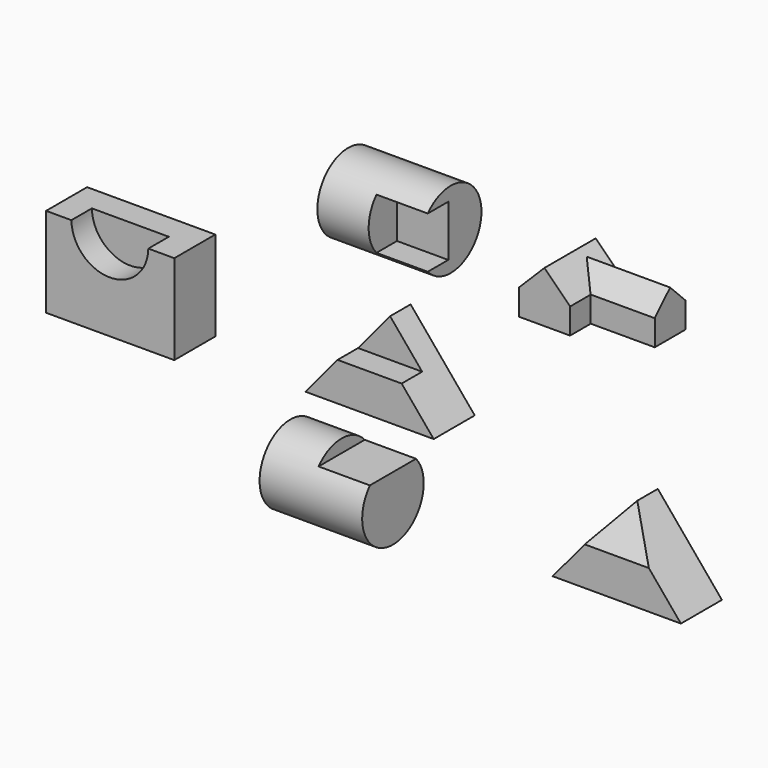
from build123d import *

# Parameters (mm, degrees)
F1_DEPTH  = 101.6
F3_DEPTH  = 50.8
F5_DEPTH  = 101.6
F9_DEPTH  = 63.5
F11_DEPTH = 127
F14_DEPTH = 165.1
F15_R     = 76.2
F16_DEPTH = 203.2
F18_DEPTH = 101.6
F19_R     = 76.2
F20_DEPTH = 203.2
F22_DEPTH = 101.6
F24_DEPTH = 101.6
F26_DEPTH = 50.8


with BuildPart() as f1:
    # F0 (on Front) → F1 (new body)
    with BuildSketch(Plane.XZ):
        Polygon((127, 152.4), (0, 0), (254, 0), align=None)
    extrude(amount=F1_DEPTH)

    # F2 (on face) → F3 (cut)
    with BuildSketch(Plane.XZ.offset(101.6)):
        Polygon((190.5, 76.2), (127, 152.4), (63.5, 76.2), align=None)
    extrude(amount=-F3_DEPTH, mode=Mode.SUBTRACT)


with BuildPart() as f5:
    # F4 (on Front) → F5 (new body)
    with BuildSketch(Plane.XZ):
        Polygon((535.4554802179, -77.8751887038), (408.4554802179, -230.2751887038), (662.4554802179, -230.2751887038), align=None)
    extrude(amount=-F5_DEPTH)

    # F8 (on 3pt) → F9 (cut, symmetric)
    with BuildSketch(Plane.YZ.offset(535.4554802179)):
        Polygon((50.8, -77.8751887038), (0, -77.8751887038), (0, -154.0751887038), align=None)
    extrude(amount=F9_DEPTH, both=True, mode=Mode.SUBTRACT)


with BuildPart() as f11:
    # F10 (on Front) → F11 (new body)
    with BuildSketch(Plane.XZ):
        Polygon((341.3501097689, 251.4062291985), (341.3501097689, 200.6062291985), (442.9501097689, 200.6062291985), (442.9501097689, 251.4062291985), (392.1501097689, 302.2062291985), align=None)
    extrude(amount=-F11_DEPTH)

    # F13 (on offset) → F14 (join)
    with BuildSketch(Plane.YZ.offset(569.9501097689)):
        Polygon((50.8958360949, 200.7921435535), (127.0958360949, 200.7921435535), (127.0958360949, 251.5921435535), (88.9958360949, 289.6921435535), (50.8958360949, 251.5921435535), align=None)
    extrude(amount=-F14_DEPTH)


with BuildPart() as f16:
    # F15 (on Right) → F16 (new body)
    with BuildSketch(Plane.YZ):
        with Locations((-139.0742510557, -109.2275083065)):
            Circle(F15_R)
    extrude(amount=F16_DEPTH)

    # F17 (on face) → F18 (cut)
    with BuildSketch(Plane.YZ.offset(203.2)):
        with BuildLine():
            ThreePointArc((-81.9242510557, -58.8259458307), (-139.0742510557, -33.0275083065), (-196.2242510557, -58.8259458307))
            Line((-196.2242510557, -58.8259458307), (-81.9242510557, -58.8259458307))
        make_face()
    extrude(amount=-F18_DEPTH, mode=Mode.SUBTRACT)


with BuildPart() as f20:
    # F19 (on Right) → F20 (new body)
    with BuildSketch(Plane.YZ):
        with Locations((257.9562664032, 136.953368783)):
            Circle(F19_R)
    extrude(amount=-F20_DEPTH)

    # F21 (on face) → F22 (cut)
    with BuildSketch(Plane.YZ):
        with BuildLine():
            Line((251.9601397747, 187.753368783), (201.1601397747, 187.753368783))
            ThreePointArc((201.1601397747, 187.753368783), (181.7562664032, 136.953368783), (201.1601397747, 86.153368783))
            Line((201.1601397747, 86.153368783), (251.9601397747, 86.153368783))
            Line((251.9601397747, 86.153368783), (251.9601397747, 187.753368783))
        make_face()
    extrude(amount=-F22_DEPTH, mode=Mode.SUBTRACT)


with BuildPart() as f24:
    # F23 (on Front) → F24 (new body)
    with BuildSketch(Plane.XZ):
        with BuildLine():
            Line((-391.5997425731, 80.6247038461), (-543.9969814222, 80.6247038461))
            ThreePointArc((-543.9969814222, 80.6247038461), (-467.7983619976, 4.8833952363), (-391.5997425731, 80.6247038461))
        make_face()
        with BuildLine():
            Line((-543.9969814222, 80.6247038461), (-595.2390838861, 80.6247038461))
            Line((-595.2390838861, 80.6247038461), (-595.2390838861, -97.1752961539))
            Line((-595.2390838861, -97.1752961539), (-341.2390838861, -97.1752961539))
            Line((-341.2390838861, -97.1752961539), (-341.2390838861, 80.6247038461))
            Line((-341.2390838861, 80.6247038461), (-391.5997425731, 80.6247038461))
            ThreePointArc((-391.5997425731, 80.6247038461), (-467.7983619976, 4.8833952363), (-543.9969814222, 80.6247038461))
        make_face()
    extrude(amount=-F24_DEPTH)

    # F25 (on face) → F26 (cut)
    with BuildSketch(Plane.XZ):
        with BuildLine():
            Line((-392.7107999736, 80.6247038461), (-545.0965479792, 80.6247038461))
            ThreePointArc((-545.0965479792, 80.6247038461), (-468.9036739764, 5.4667936684), (-392.7107999736, 80.6247038461))
        make_face()
    extrude(amount=-F26_DEPTH, mode=Mode.SUBTRACT)


solid = Compound([f1.part, f5.part, f11.part, f16.part, f20.part, f24.part])
